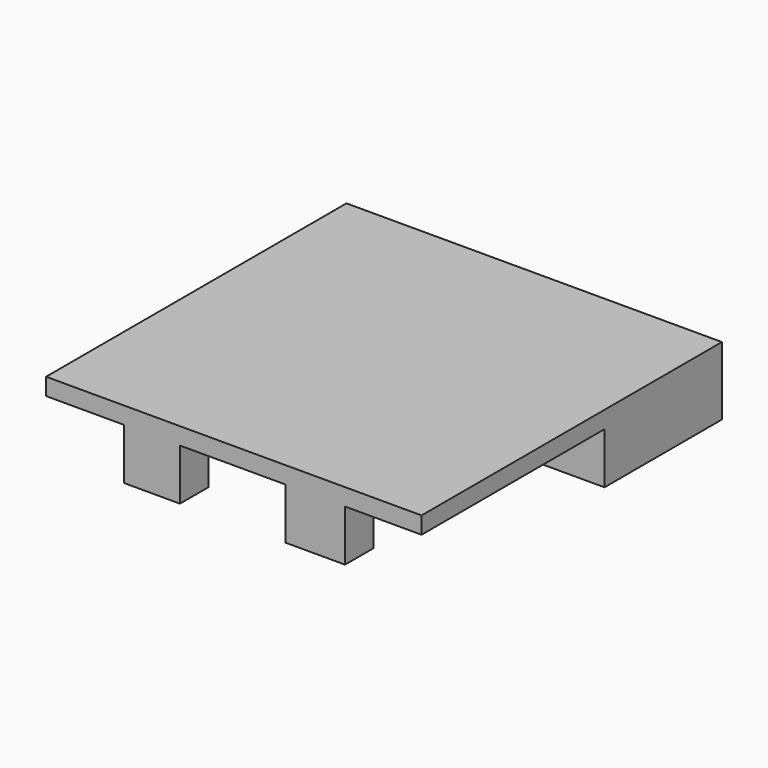
from build123d import *

# Parameters (mm, degrees)
F0_W     = 110
F0_H     = 110
F1_DEPTH = 20
F2_R     = 2.5
F3_DEPTH = 10
F4_W     = 30.978008
F4_H     = 10.43164
F5_DEPTH = 15


with BuildPart() as f1:
    # F0 (on Top) → F1 (new body)
    with BuildSketch(Plane.XY):
        Rectangle(F0_W, F0_H)
    extrude(amount=F1_DEPTH)

    # F2 (on face) → F3 (cut)
    with BuildSketch(Plane(origin=(0, 0, 0), x_dir=(1, 0, 0), z_dir=(0, 0, -1))):
        with Locations((20, 50)):
            Circle(F2_R)
        with Locations((-20, 50)):
            Circle(F2_R)
        with Locations((28, -20)):
            Circle(F2_R)
        with Locations((-28, -20)):
            Circle(F2_R)
    extrude(amount=-F3_DEPTH, mode=Mode.SUBTRACT)

    # F4 (on face) → F5 (cut)
    with BuildSketch(Plane(origin=(0, 0, 0), x_dir=(1, 0, 0), z_dir=(0, 0, -1))):
        Polygon((15.189216, -11.991489), (55, -11.991489), (55, 44.56836), (55, 55), (32.581832, 55), (32.581832, 44.56836), (15.189216, 44.56836), (-15.788792, 44.56836), (-32.204367, 44.56836), (-32.204367, 55), (-55, 55), (-55, 44.56836), (-55, -11.991489), (-15.788792, -11.991489), (-15.788792, -55), (15.189216, -55), align=None)
        with Locations((-0.299788, 49.78418)):
            Rectangle(F4_W, F4_H)
    extrude(amount=-F5_DEPTH, mode=Mode.SUBTRACT)


solid = f1.part
